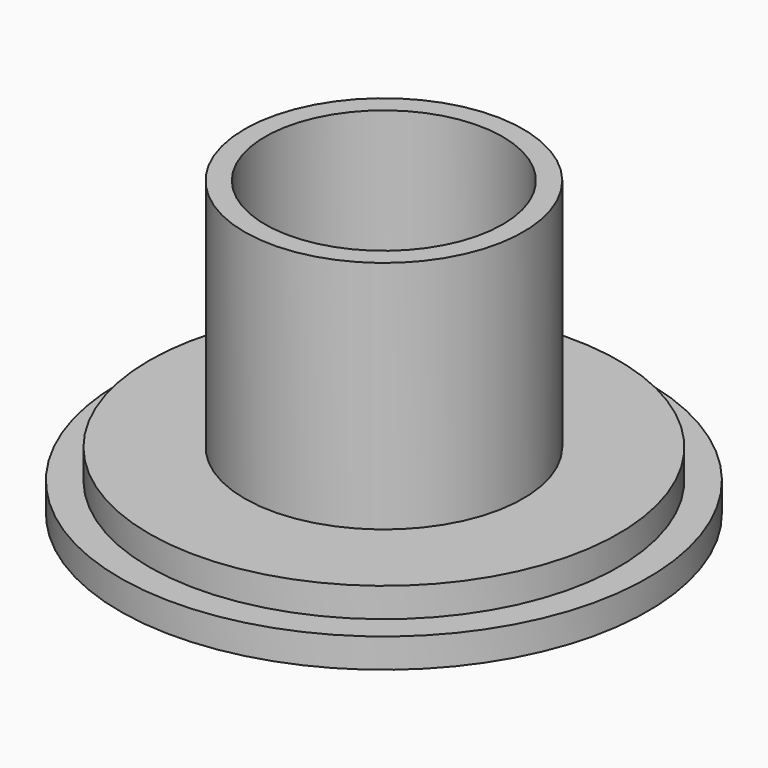
from build123d import *

# Parameters (mm, degrees)
F2_R     = 8.1
F3_DEPTH = 40


with BuildPart() as f1:
    # F0 (on Front) → F1 (revolve)
    with BuildSketch(Plane.XZ):
        Polygon((0, -4), (0, 0), (0, 16), (-9.5, 16), (-9.5, 0), (-16, 0), (-16, -2), (-18, -2), (-18, -4), align=None)
    revolve(axis=Axis((0, 0, -2), (0, 0, 1)))

    # F2 (on face) → F3 (cut)
    with BuildSketch(Plane.XY.offset(16)):
        Circle(F2_R)
    extrude(amount=-F3_DEPTH, mode=Mode.SUBTRACT)


solid = f1.part
